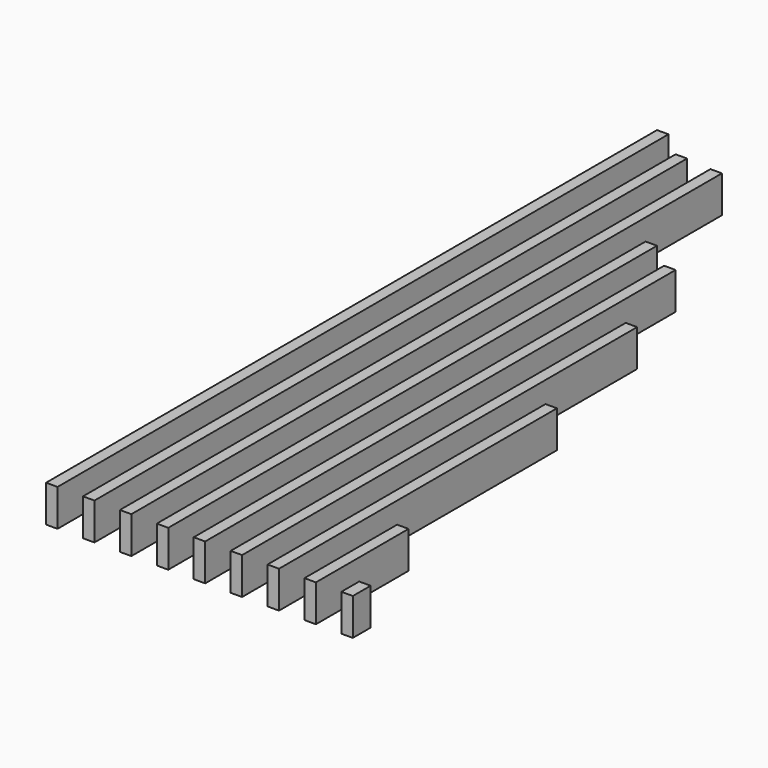
from build123d import *

# Parameters (mm, degrees)
F0_W     = 45
F0_H     = 145
F1_DEPTH = 3000
F2_DEPTH = 2910
F3_DEPTH = 2900
F4_DEPTH = 2400
F5_DEPTH = 2310
F6_DEPTH = 1365
F7_DEPTH = 455
F8_DEPTH = 87.5
F9_DEPTH = 1940


with BuildPart() as f1:
    # F0 (on Front) → F1 (new body)
    with BuildSketch(Plane.XZ):
        with Locations((22.5, 72.5)):
            Rectangle(F0_W, F0_H)
    extrude(amount=-F1_DEPTH)


with BuildPart() as f2:
    # F0 (on Front) → F2 (new body)
    with BuildSketch(Plane.XZ):
        with Locations((167.5, 72.5)):
            Rectangle(F0_W, F0_H)
    extrude(amount=-F2_DEPTH)


with BuildPart() as f3:
    # F0 (on Front) → F3 (new body)
    with BuildSketch(Plane.XZ):
        with Locations((312.5, 72.5)):
            Rectangle(F0_W, F0_H)
    extrude(amount=-F3_DEPTH)


with BuildPart() as f4:
    # F0 (on Front) → F4 (new body)
    with BuildSketch(Plane.XZ):
        with Locations((457.5, 72.5)):
            Rectangle(F0_W, F0_H)
    extrude(amount=-F4_DEPTH)


with BuildPart() as f5:
    # F0 (on Front) → F5 (new body)
    with BuildSketch(Plane.XZ):
        with Locations((602.5, 72.5)):
            Rectangle(F0_W, F0_H)
    extrude(amount=-F5_DEPTH)


with BuildPart() as f6:
    # F0 (on Front) → F6 (new body)
    with BuildSketch(Plane.XZ):
        with Locations((892.5, 72.5)):
            Rectangle(F0_W, F0_H)
    extrude(amount=-F6_DEPTH)


with BuildPart() as f7:
    # F0 (on Front) → F7 (new body)
    with BuildSketch(Plane.XZ):
        with Locations((1037.5, 72.5)):
            Rectangle(F0_W, F0_H)
    extrude(amount=-F7_DEPTH)


with BuildPart() as f8:
    # F0 (on Front) → F8 (new body)
    with BuildSketch(Plane.XZ):
        with Locations((1182.5, 72.5)):
            Rectangle(F0_W, F0_H)
    extrude(amount=-F8_DEPTH)


with BuildPart() as f9:
    # F0 (on Front) → F9 (new body)
    with BuildSketch(Plane.XZ):
        with Locations((747.5, 72.5)):
            Rectangle(F0_W, F0_H)
    extrude(amount=-F9_DEPTH)


solid = Compound([f1.part, f2.part, f3.part, f4.part, f5.part, f6.part, f7.part, f8.part, f9.part])
